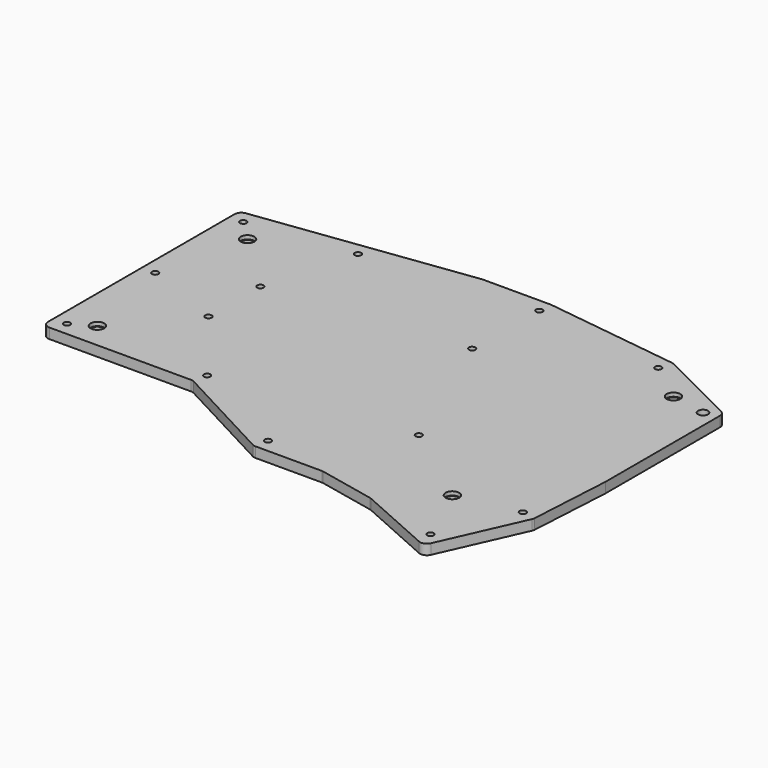
from build123d import *

# Parameters (mm, degrees)
PAD001_DEPTH    = 3
FILLET001_R     = 2
SKETCH016_R     = 0.95
SKETCH016_R_2   = 1.45
POCKET006_DEPTH = 3.001
SKETCH017_R     = 1.7
POCKET007_DEPTH = 3.001
SKETCH018_R     = 2
POCKET008_DEPTH = 1.1


with BuildPart() as part:
    # Sketch001 → Pad001 (new body)
    with BuildSketch(Plane.XY):
        Polygon((0, 0), (0, 72.168726), (64.627307, 80.65), (84.722693, 80.65), (124.674612, 75.406966), (149.35, 63.069272), (149.35, 19.79532), (147.938038, -4.774436), (136.341223, -30.821308), (112.397959, -20.161079), (95.409166, -16.55), (75.203903, -16.55), (44.103903, 0), align=None)
    extrude(amount=PAD001_DEPTH)

    # Fillet001
    fillet001_edges = [part.edges().sort_by_distance(p)[0] for p in [
        (0, 0, 1.5),
        (44.103903, 0, 1.5),
        (75.203903, -16.55, 1.5),
        (95.409166, -16.55, 1.5),
        (112.397959, -20.161079, 1.5),
        (136.341223, -30.821308, 1.5),
        (147.938038, -4.774436, 1.5),
        (149.35, 19.79532, 1.5),
        (149.35, 63.069272, 1.5),
        (124.674612, 75.406966, 1.5),
        (84.722693, 80.65, 1.5),
        (64.627307, 80.65, 1.5),
        (0, 72.168726, 1.5),
    ]]
    fillet(fillet001_edges, radius=FILLET001_R)

    # Sketch016 (on Face5 of Fillet001) → Pocket006 (cut, through all)
    with BuildSketch(Plane.XY.offset(3)):
        with Locations((4, 68.659363)):
            Circle(SKETCH016_R)
        with Locations((4, 36.329682)):
            Circle(SKETCH016_R)
        with Locations((4, 4)):
            Circle(SKETCH016_R)
        with Locations((45.101951, 4)):
            Circle(SKETCH016_R)
        with Locations((76.201951, -12.55)):
            Circle(SKETCH016_R)
        with Locations((134.313988, -25.540179)):
            Circle(SKETCH016_R)
        with Locations((143.986562, -3.815223)):
            Circle(SKETCH016_R)
        with Locations((145.35, 60.597136)):
            Circle(SKETCH016_R_2)
        with Locations((123.487306, 71.528483)):
            Circle(SKETCH016_R)
        with Locations((84.198914, 52.349499)):
            Circle(SKETCH016_R)
        with Locations((27.061811, 46.097252)):
            Circle(SKETCH016_R)
        with Locations((27.055561, 27.04681)):
            Circle(SKETCH016_R)
        with Locations((101.461166, 11.216918)):
            Circle(SKETCH016_R)
        with Locations((34.444327, 72.654682)):
            Circle(SKETCH016_R)
        with Locations((84.461347, 76.65)):
            Circle(SKETCH016_R)
    extrude(amount=-POCKET006_DEPTH, mode=Mode.SUBTRACT)

    # Sketch017 (on Face5 of Pocket006) → Pocket007 (cut, through all)
    with BuildSketch(Plane.XY.offset(3)):
        with Locations((10.086737, 62.606358)):
            Circle(SKETCH017_R)
        with Locations((10.086737, 7.515739)):
            Circle(SKETCH017_R)
        with Locations((126.131942, -7.312394)):
            Circle(SKETCH017_R)
        with Locations((135.066086, 62.606358)):
            Circle(SKETCH017_R)
    extrude(amount=-POCKET007_DEPTH, mode=Mode.SUBTRACT)

    # Sketch018 (on Face5 of Pocket007) → Pocket008 (cut)
    with BuildSketch(Plane.XY.offset(3)):
        with Locations((10.086737, 62.606358)):
            Circle(SKETCH018_R)
        with Locations((10.086737, 7.515739)):
            Circle(SKETCH018_R)
        with Locations((126.131942, -7.312394)):
            Circle(SKETCH018_R)
        with Locations((135.066086, 62.606358)):
            Circle(SKETCH018_R)
    extrude(amount=-POCKET008_DEPTH, mode=Mode.SUBTRACT)


solid = part.part
